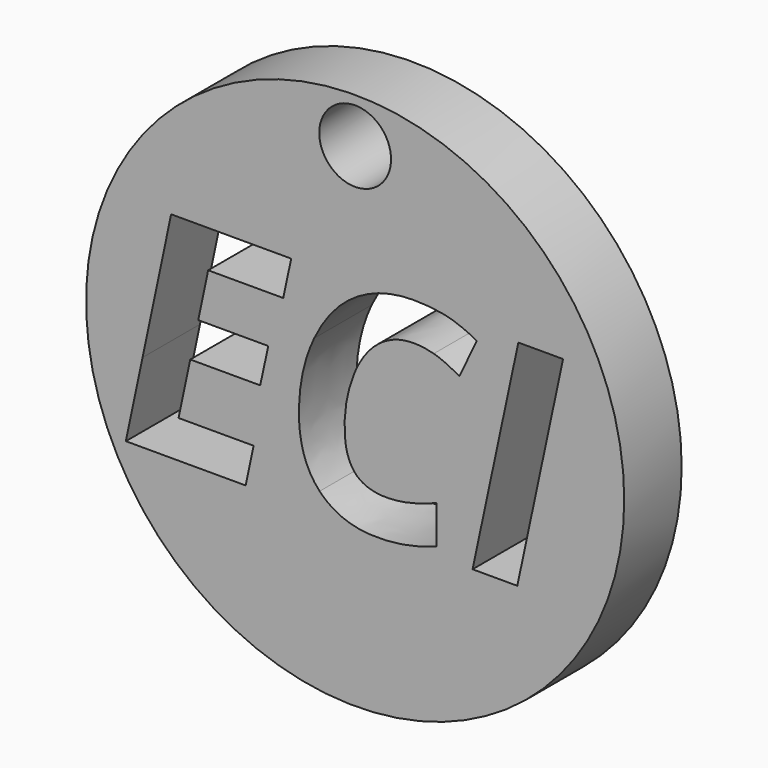
from build123d import *

# Parameters (mm, degrees)
F0_R     = 23.7973915631
F1_DEPTH = 6.35
F3_D     = 6.35


with BuildPart() as f1:
    # F0 (on Front) → F1 (new body)
    with BuildSketch(Plane.XZ):
        Circle(F0_R)
        with BuildLine():
            ThreePointArc((17.8274095594, 6.5802461846), (18.7068363125, 3.3422218102), (19.0030568975, 0))
            ThreePointArc((19.0030568975, 0), (5.0628246451, -18.3162217191), (-16.3053653077, -9.7596738487))
            Line((-16.3053653077, -9.7596738487), (-20.2795601427, -9.7596738487))
            Line((-20.2795601427, -9.7596738487), (-18.801405818, -2.7610343567))
            ThreePointArc((-18.801405818, -2.7610343567), (-6.0845605014, 18.0026191137), (16.6213590387, 9.2112211544))
            Line((16.6213590387, 9.2112211544), (18.3888454525, 9.2112211544))
            Line((18.3888454525, 9.2112211544), (17.8274095594, 6.5802461846))
        make_face(mode=Mode.SUBTRACT)
        with BuildLine():
            ThreePointArc((-16.3053653077, -9.7596738487), (5.0628246451, -18.3162217191), (19.0030568975, 0))
            ThreePointArc((19.0030568975, 0), (18.7068363125, 3.3422218102), (17.8274095594, 6.5802461846))
            Line((17.8274095594, 6.5802461846), (14.3405586002, -9.7596738487))
            Line((14.3405586002, -9.7596738487), (10.3836177077, -9.7596738487))
            Line((10.3836177077, -9.7596738487), (14.43190456, 9.2112211544))
            Line((14.43190456, 9.2112211544), (16.6213590387, 9.2112211544))
            ThreePointArc((16.6213590387, 9.2112211544), (-6.0845605014, 18.0026191137), (-18.801405818, -2.7610343567))
            Line((-18.801405818, -2.7610343567), (-16.2727941812, 9.2112211544))
            Line((-16.2727941812, 9.2112211544), (-5.6559024055, 9.2112211544))
            Line((-5.6559024055, 9.2112211544), (-6.3576054599, 5.9144624255))
            Line((-6.3576054599, 5.9144624255), (-13.0009479868, 5.9144624255))
            Line((-13.0009479868, 5.9144624255), (-13.8728866934, 1.749917079))
            Line((-13.8728866934, 1.749917079), (-7.6821218762, 1.749917079))
            Line((-7.6821218762, 1.749917079), (-8.3962811978, -1.5468416499))
            Line((-8.3962811978, -1.5468416499), (-14.582893926, -1.5468416499))
            Line((-14.582893926, -1.5468416499), (-15.6209161958, -6.4380025853))
            Line((-15.6209161958, -6.4380025853), (-8.9775736689, -6.4380025853))
            Line((-8.9775736689, -6.4380025853), (-9.6792767233, -9.7596738487))
            Line((-9.6792767233, -9.7596738487), (-16.3053653077, -9.7596738487))
        make_face()
        with BuildLine():
            add(Edge.make_bspline(
                [(6.9560681728, 5.9144624255), (6.0612929762, 6.1594356812), (5.1768980023, 6.1594356812)],
                knots=[0, 0, 0, 1, 1, 1], degree=2))
            add(Edge.make_bspline(
                [(5.1768980023, 6.1594356812), (3.4662373016, 6.1594356812), (2.0960479055, 5.1089571441)],
                knots=[0, 0, 0, 1, 1, 1], degree=2))
            add(Edge.make_bspline(
                [(2.0960479055, 5.1089571441), (0.7258585093, 4.0584786071), (-0.1045593065, 2.0156507801)],
                knots=[0, 0, 0, 1, 1, 1], degree=2))
            add(Edge.make_bspline(
                [(-0.1045593065, 2.0156507801), (-0.9349771224, -0.0271770469), (-0.9349771224, -2.3772594658)],
                knots=[0, 0, 0, 1, 1, 1], degree=2))
            add(Edge.make_bspline(
                [(-0.9349771224, -2.3772594658), (-0.9349771224, -4.5446499652), (-0.0464300594, -5.5951285022)],
                knots=[0, 0, 0, 1, 1, 1], degree=2))
            add(Edge.make_bspline(
                [(-0.0464300594, -5.5951285022), (0.8421170035, -6.6456070393), (2.7894467817, -6.6456070393)],
                knots=[0, 0, 0, 1, 1, 1], degree=2))
            add(Edge.make_bspline(
                [(2.7894467817, -6.6456070393), (4.6827994019, -6.6456070393), (7.1740528494, -5.6449535712)],
                knots=[0, 0, 0, 1, 1, 1], degree=2))
            Line((7.1740528494, -5.6449535712), (7.1740528494, -9.0206019926))
            add(Edge.make_bspline(
                [(7.1740528494, -9.0206019926), (4.5956055312, -10.0212554607), (1.9839415003, -10.0212554607)],
                knots=[0, 0, 0, 1, 1, 1], degree=2))
            add(Edge.make_bspline(
                [(1.9839415003, -10.0212554607), (-1.3086651395, -10.0212554607), (-3.1397364235, -8.0801538162)],
                knots=[0, 0, 0, 1, 1, 1], degree=2))
            add(Edge.make_bspline(
                [(-3.1397364235, -8.0801538162), (-4.9708077074, -6.1390521716), (-4.9708077074, -2.5848639198)],
                knots=[0, 0, 0, 1, 1, 1], degree=2))
            add(Edge.make_bspline(
                [(-4.9708077074, -2.5848639198), (-4.9708077074, 0.8156970362), (-3.6213787567, 3.6764864118)],
                knots=[0, 0, 0, 1, 1, 1], degree=2))
            add(Edge.make_bspline(
                [(-3.6213787567, 3.6764864118), (-2.2719498059, 6.5372757874), (-0.0132133468, 8.0237236778)],
                knots=[0, 0, 0, 1, 1, 1], degree=2))
            add(Edge.make_bspline(
                [(-0.0132133468, 8.0237236778), (2.2455231123, 9.5101715682), (5.1768980023, 9.5101715682)],
                knots=[0, 0, 0, 1, 1, 1], degree=2))
            add(Edge.make_bspline(
                [(5.1768980023, 9.5101715682), (6.8003648323, 9.5101715682), (8.0584478233, 9.2174492881)],
                knots=[0, 0, 0, 1, 1, 1], degree=2))
            add(Edge.make_bspline(
                [(8.0584478233, 9.2174492881), (9.3165308143, 8.924727008), (10.7573057248, 8.1482863502)],
                knots=[0, 0, 0, 1, 1, 1], degree=2))
            Line((10.7573057248, 8.1482863502), (9.2251848546, 4.9013526902))
            add(Edge.make_bspline(
                [(9.2251848546, 4.9013526902), (7.8508433693, 5.6694891698), (6.9560681728, 5.9144624255)],
                knots=[0, 0, 0, 1, 1, 1], degree=2))
        make_face(mode=Mode.SUBTRACT)
    extrude(amount=F1_DEPTH)

    # F3 (through all)
    with Locations(Plane(origin=(0, 0, 0), x_dir=(1, 0, 0), z_dir=(0, 1, 0))):
        with Locations((0, -19.8092386127)):
            Hole(F3_D / 2)


solid = f1.part
